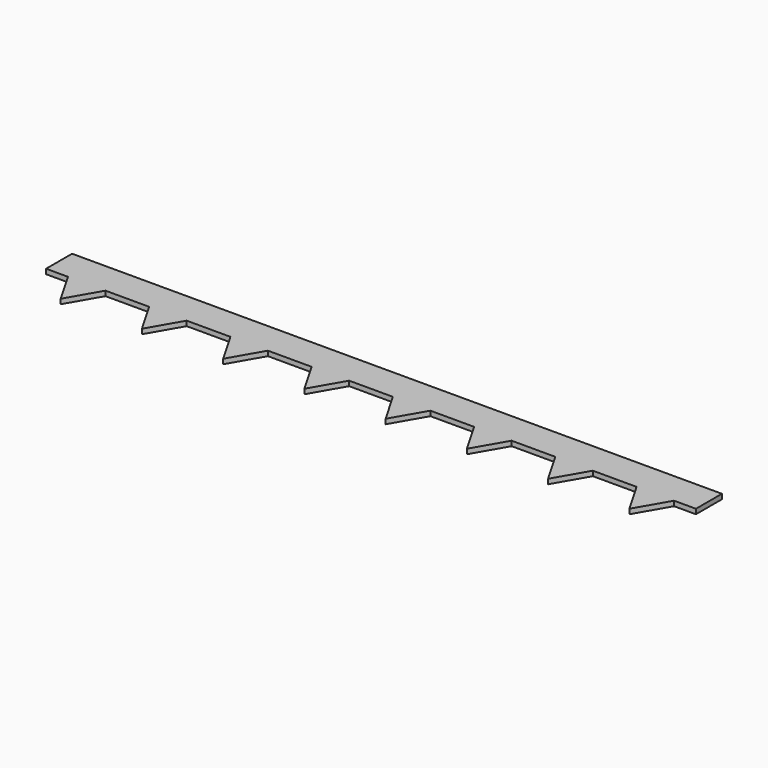
from build123d import *

# Parameters (mm, degrees)
F1_DEPTH = 6


with BuildPart() as f1:
    # F0 (on Top) → F1 (new body)
    with BuildSketch(Plane.XY):
        Polygon((800, 0), (0, 0), (0, -40), (26.905989, -40), (73.094011, -40), (126.905989, -40), (173.094011, -40), (226.905989, -40), (273.094011, -40), (326.905989, -40), (373.094011, -40), (426.905989, -40), (473.094011, -40), (526.905989, -40), (573.094011, -40), (626.905989, -40), (673.094011, -40), (726.905989, -40), (773.094011, -40), (800, -40), align=None)
        Polygon((73.094011, -40), (26.905989, -40), (50, -80), align=None)
        Polygon((750, -80), (773.094011, -40), (726.905989, -40), align=None)
        Polygon((173.094011, -40), (126.905989, -40), (150, -80), align=None)
        Polygon((650, -80), (673.094011, -40), (626.905989, -40), align=None)
        Polygon((273.094011, -40), (226.905989, -40), (250, -80), align=None)
        Polygon((550, -80), (573.094011, -40), (526.905989, -40), align=None)
        Polygon((373.094011, -40), (326.905989, -40), (350, -80), align=None)
        Polygon((450, -80), (473.094011, -40), (426.905989, -40), align=None)
    extrude(amount=F1_DEPTH)


solid = f1.part
